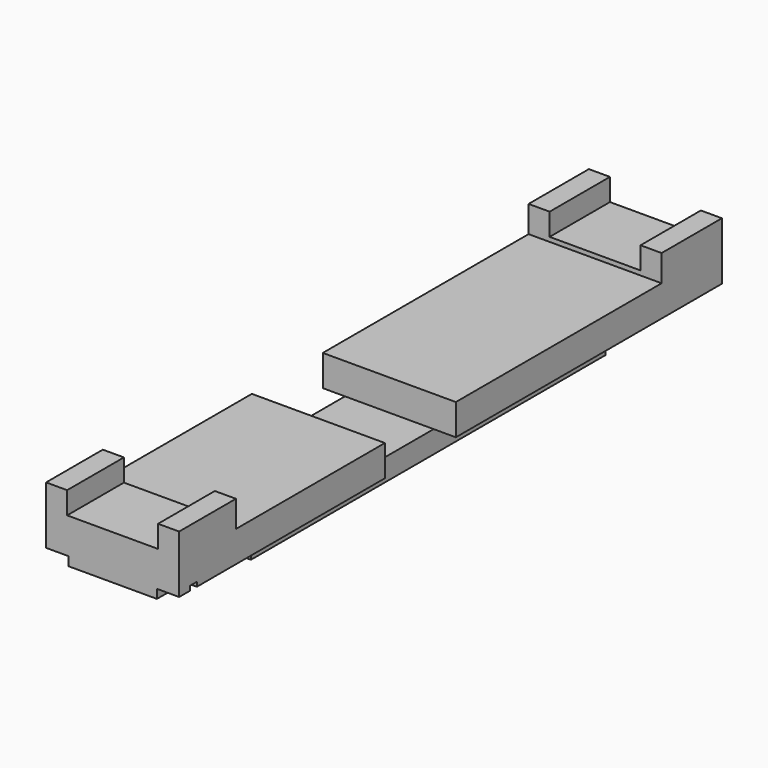
from build123d import *

# Parameters (mm, degrees)
F0_W      = 2
F0_H      = 10
F1_DEPTH  = 0.3
F2_W      = 2
F2_H      = 2.65
F2_H_2    = 10
F3_DEPTH  = 0.2
F4_W      = 0.5
F4_H      = 7.5
F4_H_2    = 5.8
F4_W_2    = 2
F5_DEPTH  = 0.7
F6_W      = 3
F6_H      = 1.7
F6_H_2    = 1.6
F7_DEPTH  = 0.1
F8_W      = 0.475
F8_H      = 1.7
F8_H_2    = 1.6
F9_DEPTH  = 0.5
F10_W     = 0.5
F10_H     = 0.2
F10_W_2   = 2
F11_DEPTH = 0.3
F12_SCALE = 3


with BuildPart() as f1:
    # F0 (on Top) → F1 (new body)
    with BuildSketch(Plane.XY):
        Rectangle(F0_W, F0_H)
    extrude(amount=F1_DEPTH)

    # F2 (on face) → F3 (join)
    with BuildSketch(Plane.XY.offset(0.3)):
        with Locations((0, 6.325)):
            Rectangle(F2_W, F2_H)
        Rectangle(F2_W, F2_H_2)
        with Locations((0, -6.325)):
            Rectangle(F2_W, F2_H)
    extrude(amount=F3_DEPTH)

    # F4 (on face) → F5 (join)
    with BuildSketch(Plane.XY.offset(0.5)):
        with Locations((-1.25, 3.9)):
            Rectangle(F4_W, F4_H)
        with Locations((1.25, 3.9)):
            Rectangle(F4_W, F4_H)
        with Locations((-1.25, -4.75)):
            Rectangle(F4_W, F4_H_2)
        with Locations((1.25, -4.75)):
            Rectangle(F4_W, F4_H_2)
        with Locations((0, 3.9)):
            Rectangle(F4_W_2, F4_H)
        with Locations((0, -4.75)):
            Rectangle(F4_W_2, F4_H_2)
    extrude(amount=F5_DEPTH)

    # F6 (on face) → F7 (join)
    with BuildSketch(Plane.XY.offset(1.2)):
        with Locations((0, 6.8)):
            Rectangle(F6_W, F6_H)
        with Locations((0, -6.85)):
            Rectangle(F6_W, F6_H_2)
    extrude(amount=F7_DEPTH)

    # F8 (on face) → F9 (join)
    with BuildSketch(Plane.XY.offset(1.3)):
        with Locations((-1.2625, 6.8)):
            Rectangle(F8_W, F8_H)
        with Locations((1.2625, 6.8)):
            Rectangle(F8_W, F8_H)
        with Locations((-1.2625, -6.85)):
            Rectangle(F8_W, F8_H_2)
        with Locations((1.2625, -6.85)):
            Rectangle(F8_W, F8_H_2)
    extrude(amount=F9_DEPTH)

    # F10 (on face) → F11 (cut)
    with BuildSketch(Plane(origin=(0, 0, 0.3), x_dir=(1, 0, 0), z_dir=(0, 0, -1))):
        with Locations((1.25, 7.25)):
            Rectangle(F10_W, F10_H)
        with Locations((-1.25, 7.25)):
            Rectangle(F10_W, F10_H)
        with Locations((0, 7.25)):
            Rectangle(F10_W_2, F10_H)
    extrude(amount=-F11_DEPTH, mode=Mode.SUBTRACT)


with BuildPart() as f1_1:
    # F12: moved
    add(f1.part.scale(F12_SCALE))


solid = f1_1.part
